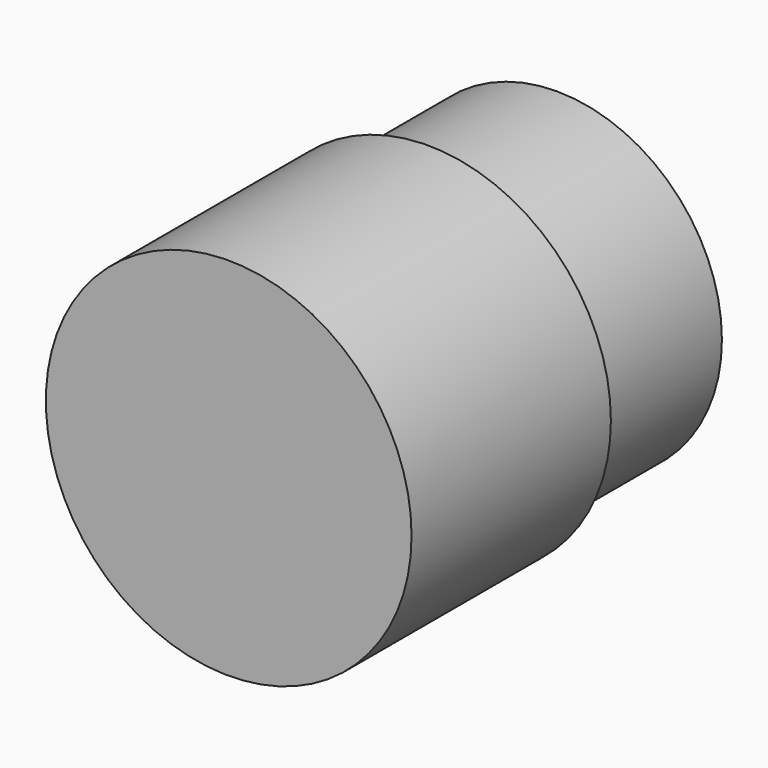
from build123d import *

# Parameters (mm, degrees)
SKETCH067_R             = 2.25
PAD046_DEPTH            = 2.2
SKETCH068_R             = 2.495
PAD047_DEPTH            = 3.4
POCKET019_DEPTH         = 4.4
POLARPATTERN_COUNT      = 80
BODY011_PLACEMENT_ANGLE = 90


with BuildPart() as part:
    # Sketch067 → Pad046 (new body)
    with BuildSketch(Plane.XY):
        Circle(SKETCH067_R)
    extrude(amount=PAD046_DEPTH)

    # Sketch068 (on Face3 of Pad046) → Pad047 (join)
    with BuildSketch(Plane.XY.offset(2.2)):
        Circle(SKETCH068_R)
    extrude(amount=PAD047_DEPTH)

    # Sketch069 (on Face3 of Pad047) → Pocket019 (cut)
    with BuildSketch(Plane.XY.offset(5.6)):
        Polygon((3.3, 0.172946), (3, 0), (3.3, -0.172946), align=None)
    pocket019 = extrude(amount=-POCKET019_DEPTH, mode=Mode.SUBTRACT)

    # PolarPattern: Pocket019 ×80 about axis
    polarpattern_axis = Axis((0, 0, 5.6), (0, 0, 1))
    for i in range(1, POLARPATTERN_COUNT):
        add(pocket019.rotate(polarpattern_axis, i * 360 / POLARPATTERN_COUNT), mode=Mode.SUBTRACT)


with BuildPart() as part_1:
    # Body011 placement: moved
    add(part.part.moved(Location((0.4, 26.3, 17.4))).rotate(Axis((0.4, 26.3, 17.4), (1, 0, 0)), BODY011_PLACEMENT_ANGLE))


solid = part_1.part
